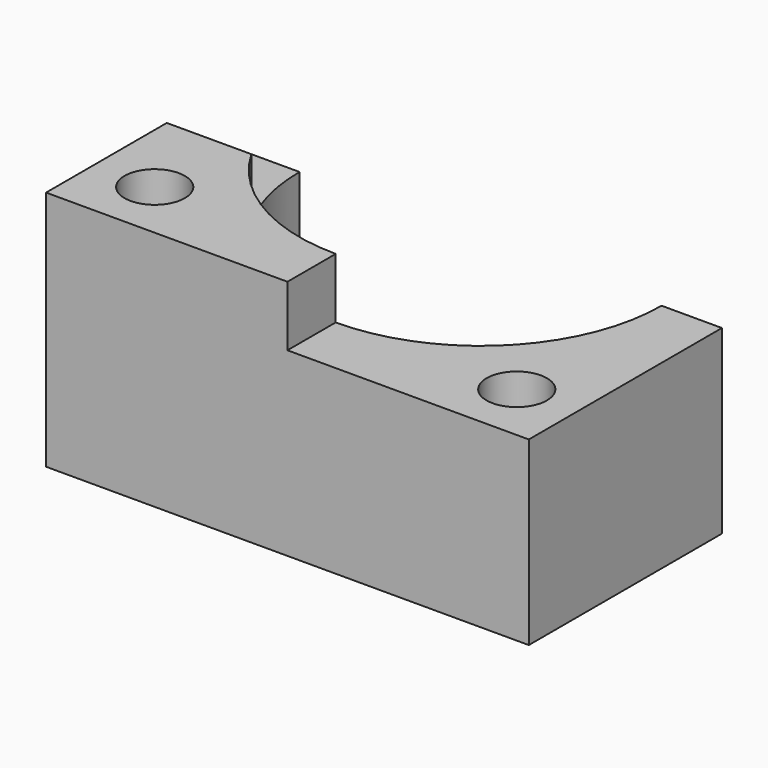
from build123d import *

# Parameters (mm, degrees)
F0_R     = 5
F1_DEPTH = 40
F2_R     = 5
F3_DEPTH = 10


with BuildPart() as f1:
    # F0 (on Top) → F1 (new body)
    with BuildSketch(Plane.XY):
        with BuildLine():
            ThreePointArc((30, 0), (0, -30), (-30, 0))
            Line((-30, 0), (-40, 0))
            Line((-40, 0), (-40, -40))
            Line((-40, -40), (40, -40))
            Line((40, -40), (40, 0))
            Line((40, 0), (30, 0))
        make_face()
        with Locations((-30, -30)):
            Circle(F0_R, mode=Mode.SUBTRACT)
        with Locations((30, -30)):
            Circle(F0_R, mode=Mode.SUBTRACT)
    extrude(amount=F1_DEPTH)

    # F2 (on face) → F3 (cut)
    with BuildSketch(Plane.XY.offset(40)):
        with BuildLine():
            Line((-40, 0), (-40, -15))
            Line((-40, -15), (-25.980762, -15))
            ThreePointArc((-25.980762, -15), (-28.977775, -7.764571), (-30, 0))
            Line((-30, 0), (-40, 0))
        make_face()
        with BuildLine():
            ThreePointArc((30, 0), (21.213203, -21.213203), (0, -30))
            Line((0, -30), (0, -40))
            Line((0, -40), (40, -40))
            Line((40, -40), (40, 0))
            Line((40, 0), (30, 0))
        make_face()
        with Locations((30, -30)):
            Circle(F2_R, mode=Mode.SUBTRACT)
    extrude(amount=-F3_DEPTH, mode=Mode.SUBTRACT)


solid = f1.part
